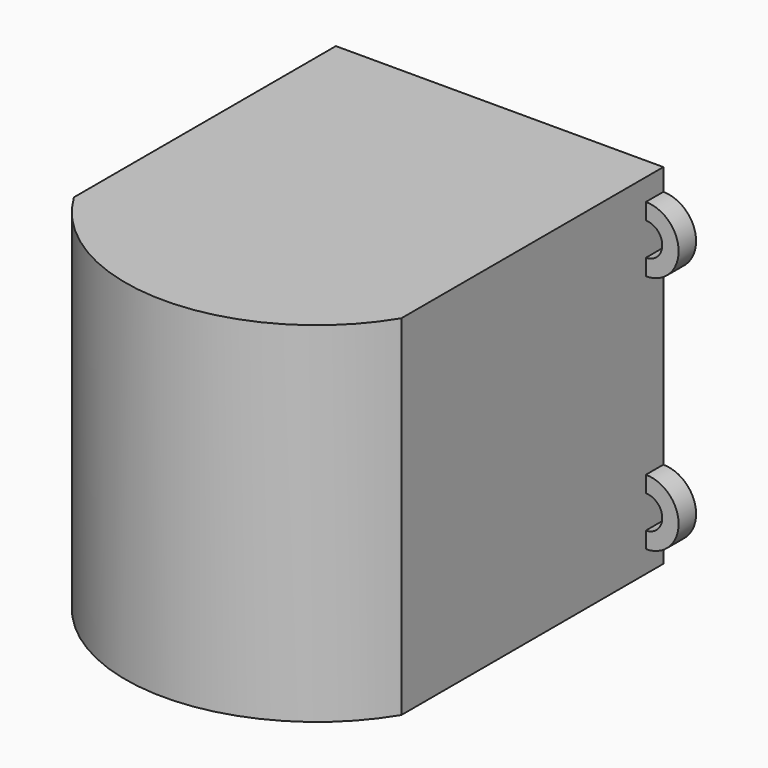
from build123d import *

# Parameters (mm, degrees)
F0_R     = 45
F1_DEPTH = 160
F2_T     = -5
F3_DEPTH = 5
F5_DEPTH = 10


with BuildPart() as f1:
    # F0 (on Top) → F1 (new body)
    with BuildSketch(Plane.XY):
        with BuildLine():
            Line((75, -75), (75, 75))
            Line((75, 75), (-75, 75))
            Line((-75, 75), (-75, -75))
            ThreePointArc((-75, -75), (0, -117.319724), (75, -75))
        make_face()
        Circle(F0_R, mode=Mode.SUBTRACT)
        Circle(F0_R)
    extrude(amount=F1_DEPTH)

    # F2
    f2_openings = [f1.faces().sort_by_distance(p)[0] for p in [
        (0, -15.361785, 0),
    ]]
    offset(amount=F2_T, openings=f2_openings)

    # F0 (on Top) → F3 (join)
    with BuildSketch(Plane.XY):
        with BuildLine():
            Line((75, -75), (75, 75))
            Line((75, 75), (-75, 75))
            Line((-75, 75), (-75, -75))
            ThreePointArc((-75, -75), (0, -117.319724), (75, -75))
        make_face()
        Circle(F0_R, mode=Mode.SUBTRACT)
    extrude(amount=F3_DEPTH)

    # F4 (on face) → F5 (join)
    with BuildSketch(Plane(origin=(0, 75, 0), x_dir=(-1, 0, 0), z_dir=(0, 1, 0))):
        with BuildLine():
            ThreePointArc((-75, 150), (-90, 135), (-75, 120))
            Line((-75, 120), (-75, 127.5))
            ThreePointArc((-75, 127.5), (-82.5, 135), (-75, 142.5))
            Line((-75, 142.5), (-75, 150))
        make_face()
        with BuildLine():
            Line((75, 127.5), (75, 120))
            ThreePointArc((75, 120), (90, 135), (75, 150))
            Line((75, 150), (75, 142.5))
            ThreePointArc((75, 142.5), (82.5, 135), (75, 127.5))
        make_face()
        with BuildLine():
            ThreePointArc((-75, 40), (-90, 25), (-75, 10))
            Line((-75, 10), (-75, 17.5))
            ThreePointArc((-75, 17.5), (-82.5, 25), (-75, 32.5))
            Line((-75, 32.5), (-75, 40))
        make_face()
        with BuildLine():
            Line((75, 17.5), (75, 10))
            ThreePointArc((75, 10), (90, 25), (75, 40))
            Line((75, 40), (75, 32.5))
            ThreePointArc((75, 32.5), (82.5, 25), (75, 17.5))
        make_face()
    extrude(amount=-F5_DEPTH)


solid = f1.part
